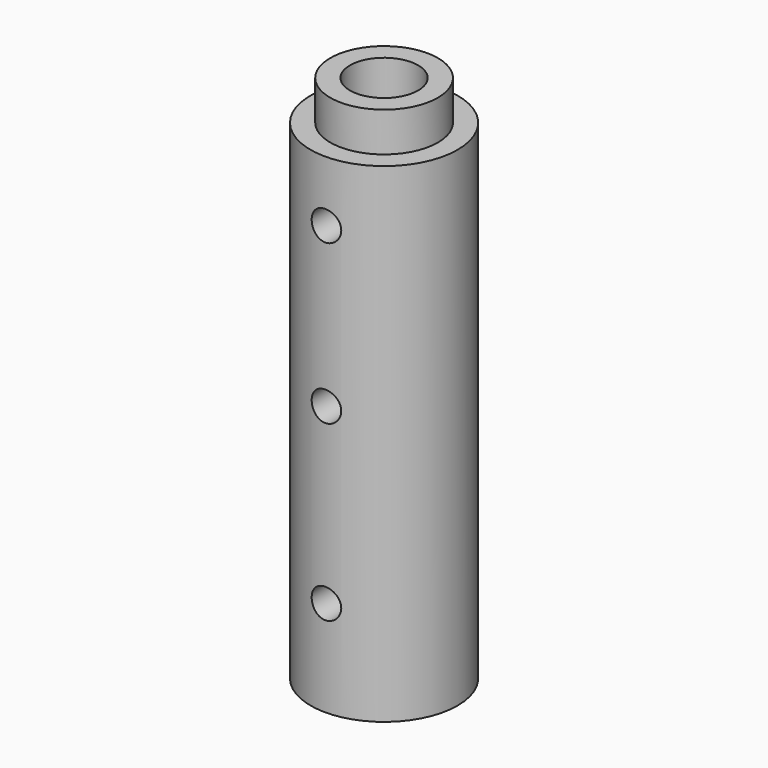
from build123d import *

# Parameters (mm, degrees)
F3_D     = 3
F3_DEPTH = 7.4598419297


with BuildPart() as f1:
    # F0 (on Front) → F1 (revolve)
    with BuildSketch(Plane.XZ):
        Polygon((3.4588419297, 61.4661982319), (3.4588419297, 11.8165865856), (5.4588419297, 11.8165865856), (5.4588419297, 7.8165865856), (7.4588419297, 7.8165865856), (7.4588419297, 57.4661982319), (5.4588419297, 57.4661982319), (5.4588419297, 61.4661982319), align=None)
    revolve(axis=Axis((0, 0, 33.0960974097), (0, 0, -1)))

    # F3 (through all, one way)
    with BuildSketch(Plane(origin=(0, 0, 0), x_dir=(1, 0, 0), z_dir=(0, 1, 0))):
        with Locations((0, -51.2947626412), (0, -35.1628810167), (0, -17.5476111472)):
            Circle(F3_D / 2)
    extrude(amount=-F3_DEPTH, mode=Mode.SUBTRACT)


solid = f1.part
